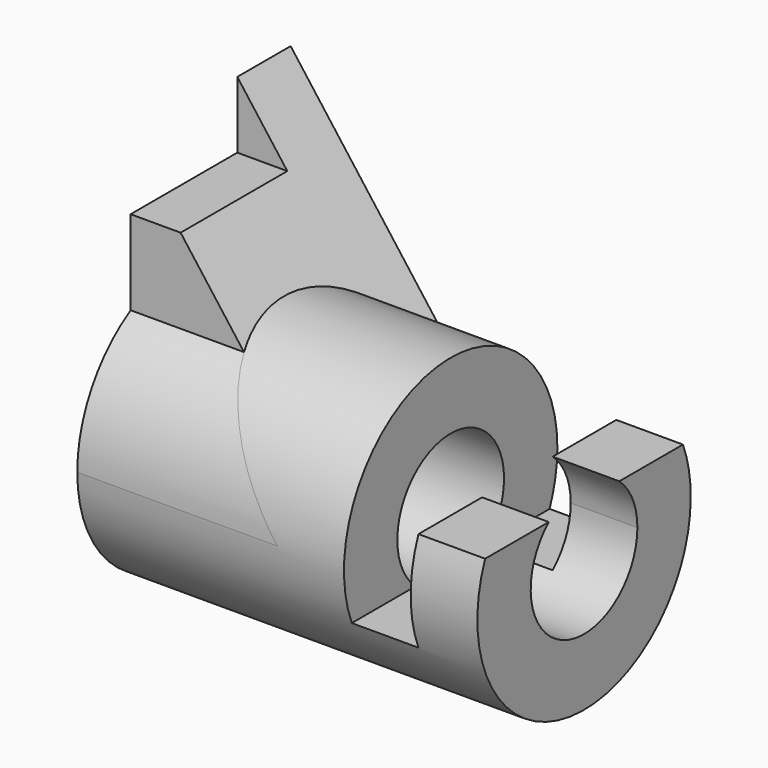
from build123d import *

# Parameters (mm, degrees)
F4_DEPTH  = 25.4
F5_DEPTH  = 50.8
F0_R      = 25.4
F0_R_2    = 12.7
F6_DEPTH  = 76.2
F7_DEPTH  = 76.2
F1_W      = 12.7
F1_H      = 34.925
F8_DEPTH  = 25.4
F9_W      = 12.7
F9_H      = 15.875
F10_DEPTH = 25.4


with BuildPart() as f4:
    # F2 (on Front) → F4 (new body, symmetric)
    with BuildSketch(Plane.XZ):
        Polygon((0, 50.8), (0, 0), (38.1, 0), align=None)
    extrude(amount=F4_DEPTH, both=True)

    # F3 (on Right) → F5 (cut)
    with BuildSketch(Plane.YZ):
        with BuildLine():
            ThreePointArc((-25.4, 0), (-21.997045, 12.7), (-12.7, 21.997045))
            Line((-12.7, 21.997045), (-12.7, 38.1))
            Line((-12.7, 38.1), (12.7, 38.1))
            Line((12.7, 38.1), (12.7, 50.8))
            Line((12.7, 50.8), (-25.4, 50.8))
            Line((-25.4, 50.8), (-25.4, 0))
        make_face()
    extrude(amount=F5_DEPTH, mode=Mode.SUBTRACT)

    # F0 (on Right) → F6 (join)
    with BuildSketch(Plane.YZ):
        Circle(F0_R)
        Circle(F0_R_2, mode=Mode.SUBTRACT)
    extrude(amount=F6_DEPTH)

    # F0 (on Right) → F7 (cut)
    with BuildSketch(Plane.YZ):
        Circle(F0_R_2)
    extrude(amount=F7_DEPTH, mode=Mode.SUBTRACT)

    # F1 (on Front) → F8 (cut, symmetric)
    with BuildSketch(Plane.XZ):
        with Locations((57.15, 7.9375)):
            Rectangle(F1_W, F1_H)
    extrude(amount=F8_DEPTH, both=True, mode=Mode.SUBTRACT)

    # F9 (on Front) → F10 (cut, symmetric)
    with BuildSketch(Plane.XZ):
        with Locations((69.85, 17.4625)):
            Rectangle(F9_W, F9_H)
    extrude(amount=F10_DEPTH, both=True, mode=Mode.SUBTRACT)


solid = f4.part
